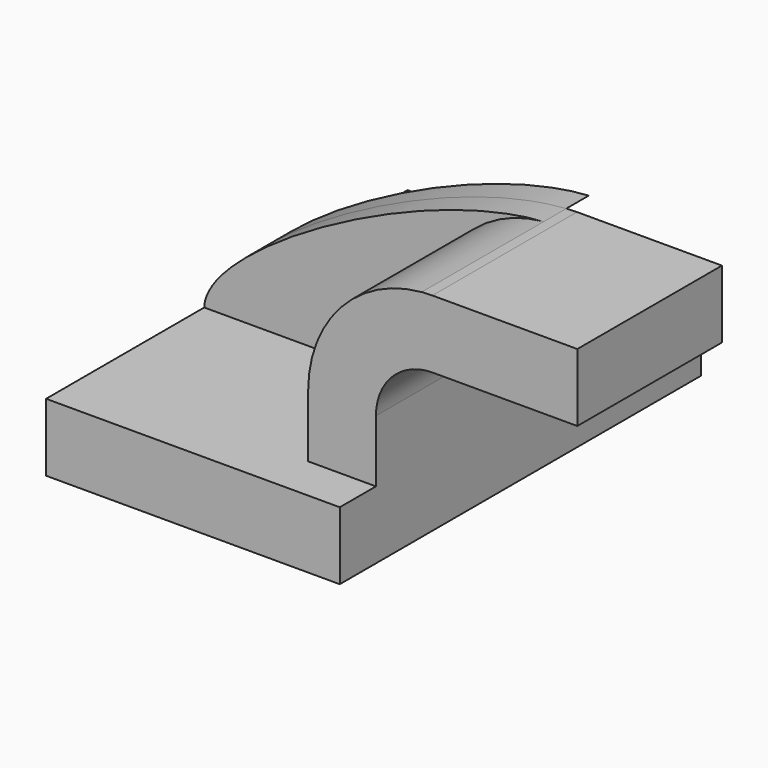
from build123d import *

# Parameters (mm, degrees)
F1_DEPTH = 63.5
F0_W     = 25.3930282362
F0_H     = 19.05
F2_DEPTH = 50.8
F3_DEPTH = 7.9375


with BuildPart() as f1:
    # F0 (on Front) → F1 (new body, symmetric)
    with BuildSketch(Plane.XZ):
        Polygon((-41.275, 9.525), (-41.275, -9.525), (41.275, -9.525), (41.275, 9.525), (22.225, 9.525), align=None)
    extrude(amount=F1_DEPTH, both=True)

    # F0 (on Front) → F2 (join)
    with BuildSketch(Plane.XZ):
        with Locations((85.1897055026, 52.4002)):
            Rectangle(F0_W, F0_H)
        with BuildLine():
            Line((22.225, 9.525), (41.275, 9.525))
            Line((41.275, 9.525), (41.275, 27.0002))
            ThreePointArc((41.275, 27.0002), (45.9246798487, 38.2255201513), (57.15, 42.8752))
            Line((57.15, 42.8752), (72.4931913845, 42.8752))
            Line((72.4931913845, 42.8752), (72.4931913845, 61.9252))
            Line((72.4931913845, 61.9252), (57.15, 61.9252))
            add(Edge.make_bspline(
                [(54.1357817201, 61.7948851281), (55.1598986423, 61.8639699544), (56.1652679987, 61.9077817435), (57.15, 61.9252)],
                knots=[108.4182059101, 108.4182059101, 108.4182059101, 108.4182059101, 111.5045361635, 111.5045361635, 111.5045361635, 111.5045361635], degree=3))
            ThreePointArc((54.1357817201, 61.7948851281), (31.4106604744, 50.6061743664), (22.225, 27.0002))
            Line((22.225, 27.0002), (22.225, 9.525))
        make_face()
    extrude(amount=F2_DEPTH)

    # F0 (on Front) → F3 (join, symmetric)
    with BuildSketch(Plane.XZ):
        with BuildLine():
            add(Edge.make_bspline(
                [(-41.275, 9.525), (-40.9503712961, 25.7539404931), (18.1600726333, 59.3680376075), (54.1357817201, 61.7948851281)],
                knots=[0, 0, 0, 0, 108.4182059101, 108.4182059101, 108.4182059101, 108.4182059101], degree=3))
            Line((-41.275, 9.525), (22.225, 9.525))
            Line((22.225, 9.525), (22.225, 27.0002))
            ThreePointArc((22.225, 27.0002), (31.4106604744, 50.6061743664), (54.1357817201, 61.7948851281))
        make_face()
    extrude(amount=F3_DEPTH, both=True)


solid = f1.part
